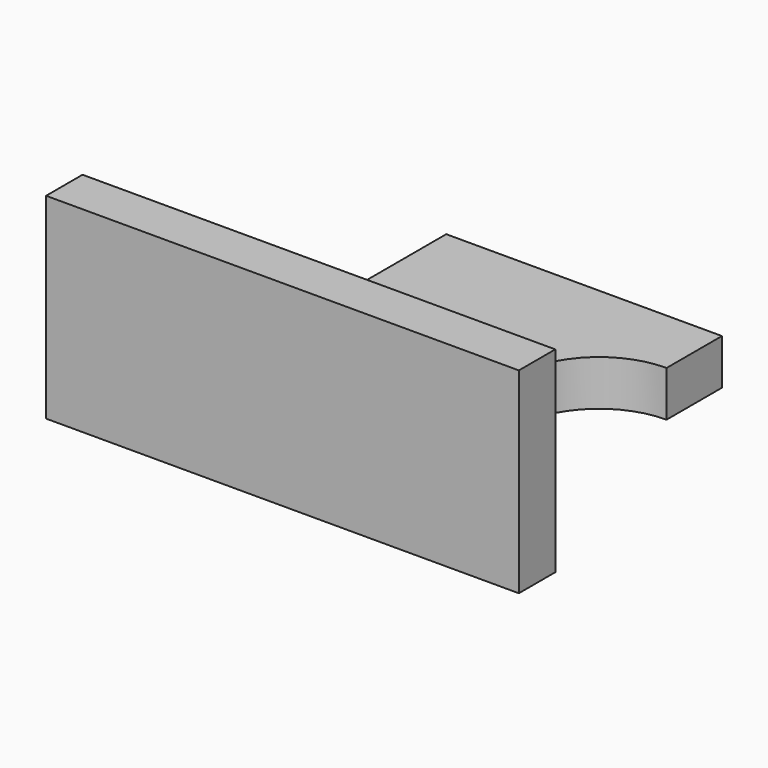
from build123d import *

# Parameters (mm, degrees)
F0_W     = 263.6432349682
F0_H     = 109.4194687903
F0_W_2   = 227.0261347294
F0_H_2   = 80.9316635132
F1_DEPTH = 25.4
F3_DEPTH = 25.4


with BuildPart() as f1:
    # F0 (on Front) → F1 (new body)
    with BuildSketch(Plane.XZ):
        with Locations((-2.4411380291, -8.943548426)):
            Rectangle(F0_W, F0_H)
        with Locations((-3.0514225364, -5.458008498)):
            Rectangle(F0_W_2, F0_H_2, mode=Mode.SUBTRACT)
        with Locations((-3.0514225364, -5.458008498)):
            Rectangle(F0_W_2, F0_H_2)
    extrude(amount=F1_DEPTH)

    # F2 (on Top) → F3 (join)
    with BuildSketch(Plane.XY):
        with BuildLine():
            Line((0, 85.7104361057), (0, 0))
            Line((0, 0), (106.6103050285, 0))
            ThreePointArc((106.6103050285, 0), (120.414287269, 33.3257611396), (153.7400484085, 47.12974338))
            Line((153.7400484085, 47.12974338), (153.7400484085, 85.7104361057))
            Line((153.7400484085, 85.7104361057), (0, 85.7104361057))
        make_face()
    extrude(amount=F3_DEPTH)


solid = f1.part
